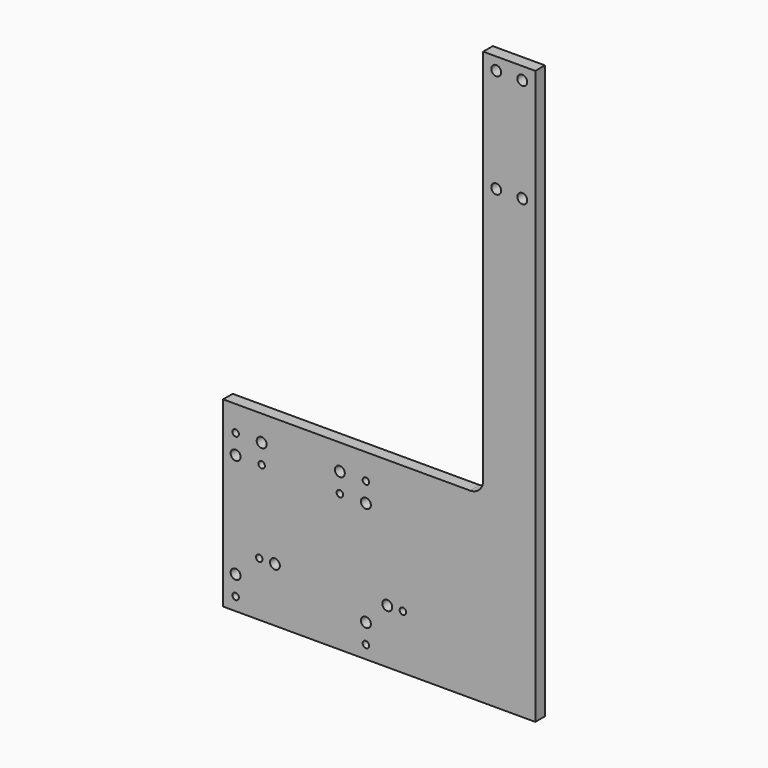
from build123d import *

# Parameters (mm, degrees)
F0_R     = 1.5875
F0_R_2   = 2.413
F1_DEPTH = 5.842
F2_R     = 6.35


with BuildPart() as f1:
    # F0 (on Front) → F1 (new body)
    with BuildSketch(Plane.XZ):
        Polygon((126.746, 0), (0, 0), (0, -88.9), (152.146, -88.9), (152.146, 190.373), (126.746, 190.373), align=None)
        with Locations((6.096, -82.55)):
            Circle(F0_R, mode=Mode.SUBTRACT)
        with Locations((6.096, -73.025)):
            Circle(F0_R_2, mode=Mode.SUBTRACT)
        with Locations((17.6276, -62.4078)):
            Circle(F0_R, mode=Mode.SUBTRACT)
        with Locations((25.2476, -62.4078)):
            Circle(F0_R_2, mode=Mode.SUBTRACT)
        with Locations((6.096, -21.971)):
            Circle(F0_R_2, mode=Mode.SUBTRACT)
        with Locations((18.796, -21.971)):
            Circle(F0_R, mode=Mode.SUBTRACT)
        with Locations((69.596, -82.55)):
            Circle(F0_R, mode=Mode.SUBTRACT)
        with Locations((69.596, -73.025)):
            Circle(F0_R_2, mode=Mode.SUBTRACT)
        with Locations((56.896, -21.971)):
            Circle(F0_R, mode=Mode.SUBTRACT)
        with Locations((69.596, -21.971)):
            Circle(F0_R_2, mode=Mode.SUBTRACT)
        with Locations((6.096, -12.446)):
            Circle(F0_R, mode=Mode.SUBTRACT)
        with Locations((18.796, -12.446)):
            Circle(F0_R_2, mode=Mode.SUBTRACT)
        with Locations((56.896, -12.446)):
            Circle(F0_R_2, mode=Mode.SUBTRACT)
        with Locations((69.596, -12.446)):
            Circle(F0_R, mode=Mode.SUBTRACT)
        with Locations((80.01, -62.4078)):
            Circle(F0_R_2, mode=Mode.SUBTRACT)
        with Locations((87.63, -62.4078)):
            Circle(F0_R, mode=Mode.SUBTRACT)
        with Locations((133.096, 133.5278)):
            Circle(F0_R_2, mode=Mode.SUBTRACT)
        with Locations((145.796, 133.5278)):
            Circle(F0_R_2, mode=Mode.SUBTRACT)
        with Locations((133.096, 184.277)):
            Circle(F0_R_2, mode=Mode.SUBTRACT)
        with Locations((145.796, 184.277)):
            Circle(F0_R_2, mode=Mode.SUBTRACT)
    extrude(amount=F1_DEPTH)

    # F2
    f2_edges = [f1.edges().sort_by_distance(p)[0] for p in [
        (126.746, -2.921, 0),
    ]]
    fillet(f2_edges, radius=F2_R)


solid = f1.part
